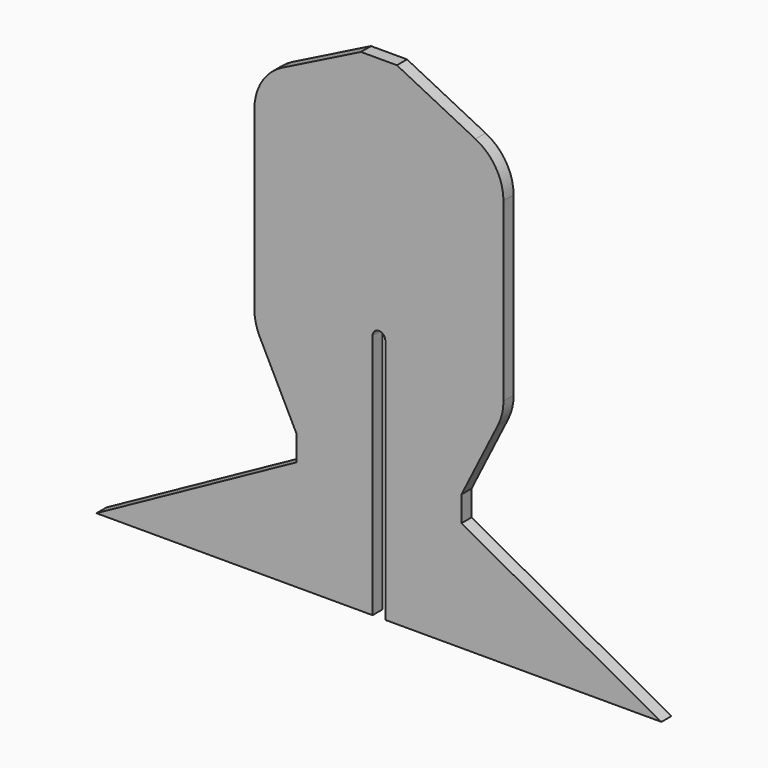
from build123d import *

# Parameters (mm, degrees)
F1_DEPTH = 25


with BuildPart() as f1:
    # F0 (on Front) → F1 (new body)
    with BuildSketch(Plane.XZ):
        with BuildLine():
            Line((-349.718489, 37.126835), (194.89311, 37.126835))
            Line((194.89311, 37.126835), (-199.541794, 253.739637))
            Line((-199.541794, 253.739637), (-199.541794, 303.739637))
            Line((-199.541794, 303.739637), (-127.248838, 447.979555))
            ThreePointArc((-127.248838, 447.979555), (-119.334756, 469.764715), (-116.648626, 492.786673))
            Line((-116.648626, 492.786673), (-116.648626, 840.545695))
            ThreePointArc((-116.648626, 840.545695), (-131.553761, 893.070584), (-171.825906, 929.937661))
            Line((-171.825906, 929.937661), (-326.719748, 1007.604186))
            Line((-326.719748, 1007.604186), (-397.71723, 1007.604186))
            Line((-397.71723, 1007.604186), (-552.611073, 929.937661))
            ThreePointArc((-552.611073, 929.937661), (-592.883217, 893.070584), (-607.788352, 840.545695))
            Line((-607.788352, 840.545695), (-607.788352, 492.786673))
            ThreePointArc((-607.788352, 492.786673), (-605.102223, 469.764715), (-597.188141, 447.979555))
            Line((-597.188141, 447.979555), (-524.895184, 303.739637))
            Line((-524.895184, 303.739637), (-524.895184, 253.739637))
            Line((-524.895184, 253.739637), (-919.330089, 37.126835))
            Line((-919.330089, 37.126835), (-374.718489, 37.126835))
            Line((-374.718489, 37.126835), (-374.718489, 522.281469))
            ThreePointArc((-374.718489, 522.281469), (-374.718772, 522.365511), (-374.718489, 522.449553))
            ThreePointArc((-374.718489, 522.449553), (-362.218489, 534.865793), (-349.718489, 522.449553))
            ThreePointArc((-349.718489, 522.449553), (-349.718207, 522.365511), (-349.718489, 522.281469))
            Line((-349.718489, 522.281469), (-349.718489, 37.126835))
        make_face()
        with BuildLine():
            Line((-349.718489, 522.449553), (-349.718489, 522.281469))
            ThreePointArc((-349.718489, 522.281469), (-349.718207, 522.365511), (-349.718489, 522.449553))
        make_face()
        with BuildLine():
            Line((-374.718489, 522.281469), (-374.718489, 522.449553))
            ThreePointArc((-374.718489, 522.449553), (-374.718772, 522.365511), (-374.718489, 522.281469))
        make_face()
    extrude(amount=F1_DEPTH)


solid = f1.part
